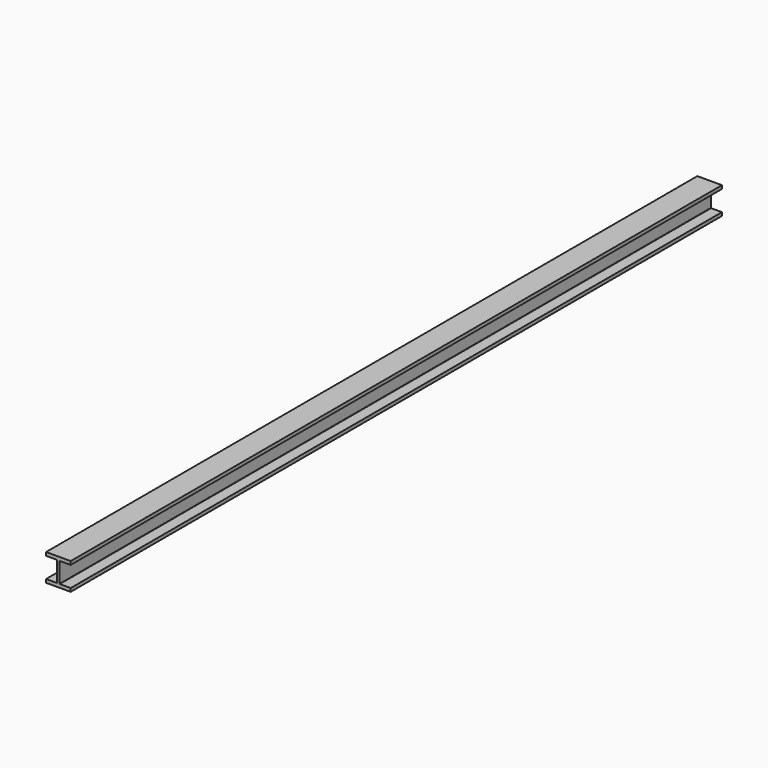
from build123d import *

# Parameters (mm, degrees)
F1_DEPTH = 3048


with BuildPart() as f1:
    # F0 (on Front) → F1 (new body, symmetric)
    with BuildSketch(Plane.XZ):
        with BuildLine():
            Line((92.075, -101.6), (92.075, -76.2))
            Line((92.075, -76.2), (12.065, -76.2))
            ThreePointArc((12.065, -76.2), (10.268949, -75.456051), (9.525, -73.66))
            Line((9.525, -73.66), (9.525, 73.66))
            ThreePointArc((9.525, 73.66), (10.268949, 75.456051), (12.065, 76.2))
            Line((12.065, 76.2), (92.075, 76.2))
            Line((92.075, 76.2), (92.075, 101.6))
            Line((92.075, 101.6), (-92.075, 101.6))
            Line((-92.075, 101.6), (-92.075, 76.2))
            Line((-92.075, 76.2), (-12.065, 76.2))
            ThreePointArc((-12.065, 76.2), (-10.268949, 75.456051), (-9.525, 73.66))
            Line((-9.525, 73.66), (-9.525, -73.66))
            ThreePointArc((-9.525, -73.66), (-10.268949, -75.456051), (-12.065, -76.2))
            Line((-12.065, -76.2), (-92.075, -76.2))
            Line((-92.075, -76.2), (-92.075, -101.6))
            Line((-92.075, -101.6), (92.075, -101.6))
        make_face()
    extrude(amount=F1_DEPTH, both=True)


solid = f1.part
